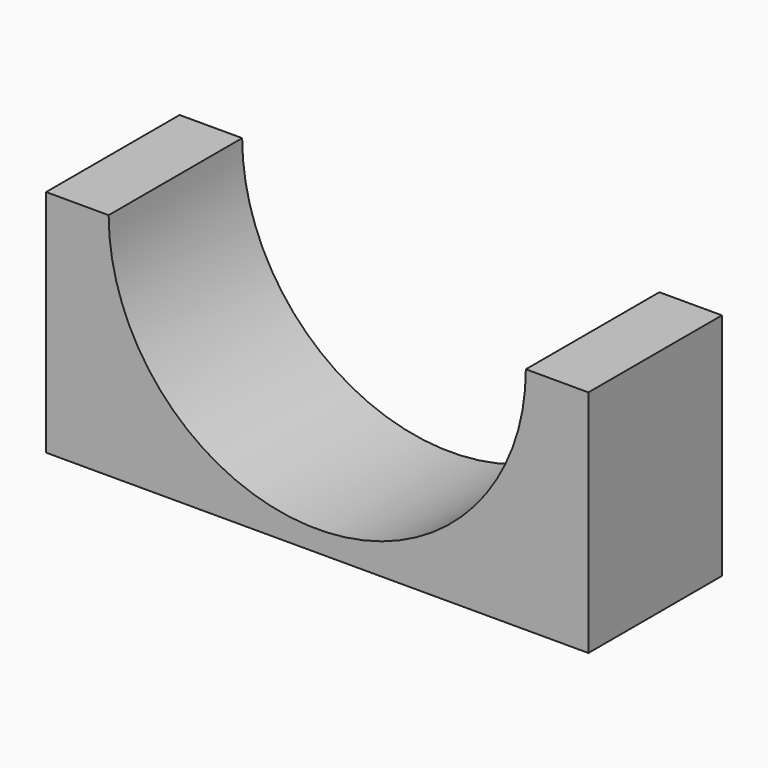
from build123d import *

# Parameters (mm, degrees)
F1_DEPTH = 20


with BuildPart() as f1:
    # F0 (on Front) → F1 (new body, symmetric)
    with BuildSketch(Plane.XZ):
        with BuildLine():
            Line((-49.394937, 8.784233), (-64.394937, 8.784233))
            Line((-64.394937, 8.784233), (-64.394937, -46.215767))
            Line((-64.394937, -46.215767), (65.605063, -46.215767))
            Line((65.605063, -46.215767), (65.605063, 8.784233))
            Line((65.605063, 8.784233), (50.605063, 8.784233))
            ThreePointArc((50.605063, 8.784233), (0.605063, -41.215767), (-49.394937, 8.784233))
        make_face()
    extrude(amount=F1_DEPTH, both=True)


solid = f1.part
